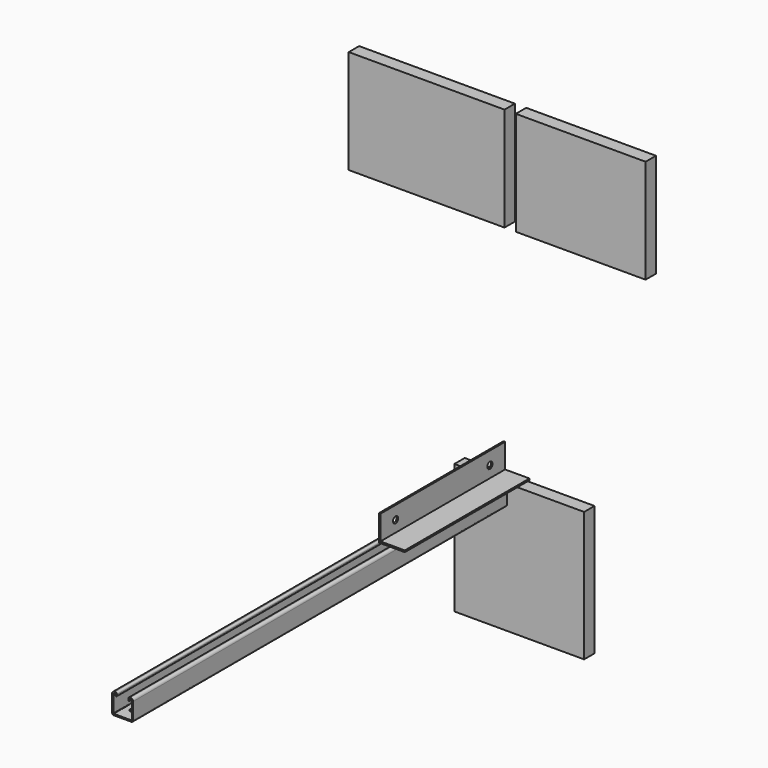
from build123d import *

# Parameters (mm, degrees)
F1_DEPTH  = 914.4
F3_D      = 14.3002
F4_W      = 254
F4_H      = 254
F5_DEPTH  = 25.4
F6_W      = 304.8
F6_H      = 203.2
F7_DEPTH  = 25.4
F6_W_2    = 254
F9_DEPTH  = 304.8
F10_R     = 6.35
F11_DEPTH = 298.3799499484


with BuildPart() as f1:
    # F0 (on Front) → F1 (new body)
    with BuildSketch(Plane.XZ):
        with BuildLine():
            add(Edge.make_bspline(
                [(-43.5507717685, 38.2530050192), (-45.4621217685, 38.2530050192), (-47.0117334351, 36.7035697414), (-47.0117334351, 34.7922197414)],
                knots=[0, 0, 0, 0, 1, 1, 1, 1], degree=3))
            Line((-47.0117334351, 34.7922197414), (-47.0117334351, 32.4490344637))
            add(Edge.make_bspline(
                [(-47.0117334351, 32.4490344639), (-47.0117334351, 31.7126461306), (-46.4143395462, 31.1156402972), (-45.677774824, 31.1156402972)],
                knots=[0, 0, 0, 0, 1, 1, 1, 1], degree=3))
            add(Edge.make_bspline(
                [(-45.677774824, 31.1156402972), (-44.9419156573, 31.1156402972), (-44.3445217684, 31.7126461306), (-44.3445217684, 32.4490344639)],
                knots=[0, 0, 0, 0, 1, 1, 1, 1], degree=3))
            Line((-44.3445217684, 32.4490344639), (-44.3445217684, 34.7922197414))
            add(Edge.make_bspline(
                [(-44.3445217684, 34.7922197414), (-44.3445217684, 35.2306166859), (-43.988992324, 35.5859697414), (-43.5507717684, 35.5859697414)],
                knots=[0, 0, 0, 0, 1, 1, 1, 1], degree=3))
            Line((-43.5507717687, 35.5859697414), (-42.5344895465, 35.5859697414))
            add(Edge.make_bspline(
                [(-42.5344895465, 35.5859697414), (-41.2198278798, 35.5859697414), (-40.1532395465, 34.5199105748), (-40.1532395465, 33.2047197414)],
                knots=[0, 0, 0, 0, 1, 1, 1, 1], degree=3))
            Line((-40.1532395465, 33.2047197414), (-40.1532395462, 0.438437519))
            add(Edge.make_bspline(
                [(-40.1532395462, 0.4384375192), (-40.1532395462, 0.0002169637), (-40.5087689907, -0.3553124808), (-40.9469895462, -0.3553124808)],
                knots=[0, 0, 0, 0, 1, 1, 1, 1], degree=3))
            Line((-40.9469895462, -0.3553124808), (-75.3007717687, -0.3553124808))
            add(Edge.make_bspline(
                [(-75.3007717687, -0.3553124808), (-75.7391687134, -0.3553124808), (-76.094521769, 0.0002169637), (-76.094521769, 0.4384375192)],
                knots=[0, 0, 0, 0, 1, 1, 1, 1], degree=3))
            Line((-76.094521769, 0.4384375192), (-76.094521769, 33.2047197412))
            add(Edge.make_bspline(
                [(-76.094521769, 33.2047197412), (-76.094521769, 34.5199105745), (-75.0284626018, 35.5859697412), (-73.7132717685, 35.5859697412)],
                knots=[0, 0, 0, 0, 1, 1, 1, 1], degree=3))
            Line((-73.7132717685, 35.5859697412), (-72.6973070465, 35.5859697412))
            add(Edge.make_bspline(
                [(-72.6973070465, 35.5859697412), (-72.2589453798, 35.5859697412), (-71.9035570465, 35.2306166856), (-71.9035570465, 34.7922197412)],
                knots=[0, 0, 0, 0, 1, 1, 1, 1], degree=3))
            Line((-71.9035570465, 34.7922197412), (-71.9035570465, 32.4490344637))
            add(Edge.make_bspline(
                [(-71.9035570465, 32.4490344637), (-71.9035570465, 31.7126461303), (-71.3065512132, 31.115640297), (-70.5699864909, 31.115640297)],
                knots=[0, 0, 0, 0, 1, 1, 1, 1], degree=3))
            add(Edge.make_bspline(
                [(-70.5699864909, 31.115640297), (-69.8335981576, 31.115640297), (-69.2365570465, 31.7126461303), (-69.2365570465, 32.4490344637)],
                knots=[0, 0, 0, 0, 1, 1, 1, 1], degree=3))
            Line((-69.2365570465, 32.4490344634), (-69.2365570465, 34.7922197414))
            add(Edge.make_bspline(
                [(-69.2365570465, 34.7922197414), (-69.2365570465, 36.7035697414), (-70.7859923243, 38.2530050192), (-72.6973070465, 38.2530050192)],
                knots=[0, 0, 0, 0, 1, 1, 1, 1], degree=3))
            Line((-72.6973070465, 38.2530050192), (-73.7132717685, 38.2530050192))
            add(Edge.make_bspline(
                [(-73.7132717685, 38.2530050192), (-76.5013803801, 38.2530050192), (-78.7615570467, 35.9928636303), (-78.7615570467, 33.2047197414)],
                knots=[0, 0, 0, 0, 1, 1, 1, 1], degree=3))
            Line((-78.7615570467, 33.2047197414), (-78.7615570467, 0.4384375195))
            add(Edge.make_bspline(
                [(-78.7615570467, 0.4384375195), (-78.7615570467, -1.472206925), (-77.212121769, -3.0218185919), (-75.3007717687, -3.0218185919)],
                knots=[0, 0, 0, 0, 1, 1, 1, 1], degree=3))
            Line((-75.300771769, -3.0218185922), (-40.9469895467, -3.0218185922))
            add(Edge.make_bspline(
                [(-40.9469895465, -3.0218185922), (-39.036345102, -3.0218185922), (-37.4867334354, -1.4722069252), (-37.4867334354, 0.4384375192)],
                knots=[0, 0, 0, 0, 1, 1, 1, 1], degree=3))
            Line((-37.4867334354, 0.4384375192), (-37.4867334354, 33.2047197414))
            add(Edge.make_bspline(
                [(-37.4867334354, 33.2047197414), (-37.4867334354, 35.9928636303), (-39.7466984354, 38.2530050192), (-42.5344895465, 38.2530050192)],
                knots=[0, 0, 0, 0, 1, 1, 1, 1], degree=3))
            Line((-42.5344895465, 38.2530050192), (-43.5507717685, 38.2530050192))
        make_face()
    extrude(amount=F1_DEPTH)

    # F3 (through all)
    with Locations(Plane(origin=(0, 0, -3.0218185922), x_dir=(1, 0, 0), z_dir=(0, 0, -1))):
        with Locations((-58.1238806577, 885.825), (-58.1238806577, 838.2), (-58.1238806577, 790.575), (-58.1238806577, 742.95), (-58.1238806577, 695.325), (-58.1238806577, 647.7), (-58.1238806577, 600.075), (-58.1238806577, 552.45), (-58.1238806577, 504.825), (-58.1238806577, 457.2), (-58.1238806577, 409.575), (-58.1238806577, 361.95), (-58.1238806577, 314.325), (-58.1238806577, 266.7), (-58.1238806577, 219.075), (-58.1238806577, 171.45), (-58.1238806577, 123.825), (-58.1238806577, 76.2), (-58.1238806577, 28.575)):
            Hole(F3_D / 2)


with BuildPart() as f5:
    # F4 (on Front) → F5 (new body)
    with BuildSketch(Plane.XZ):
        with Locations((-13.5827994868, -90.0102279425)):
            Rectangle(F4_W, F4_H)
    extrude(amount=-F5_DEPTH)


with BuildPart() as f7:
    # F6 (on Front) → F7 (new body)
    with BuildSketch(Plane.XZ):
        with Locations((-174.4194579414, 594.6261911135)):
            Rectangle(F6_W, F6_H)
    extrude(amount=F7_DEPTH)


with BuildPart() as f7b:
    # F6 (on Front) → F7, piece 2 (new body)
    with BuildSketch(Plane.XZ):
        with Locations((127, 594.6261911135)):
            Rectangle(F6_W_2, F6_H)
    extrude(amount=F7_DEPTH)


with BuildPart() as f9:
    # F8 (on Front) → F9 (new body)
    with BuildSketch(Plane.XZ):
        Polygon((-44.3789499484, 56.6901619234), (6.4210500516, 56.6901619234), (6.4210500516, 59.8651619234), (-41.2039499484, 59.8651619234), (-41.2039499484, 107.4901619234), (-44.3789499484, 107.4901619234), align=None)
    extrude(amount=F9_DEPTH)

    # F10 (on face) → F11 (cut, through all)
    with BuildSketch(Plane(origin=(-44.3789499484, 0, 0), x_dir=(0, -1, 0), z_dir=(-1, 0, 0))):
        with Locations((37.0337226301, 82.0901619234)):
            Circle(F10_R)
        with Locations((267.7662773699, 82.0901619234)):
            Circle(F10_R)
    extrude(amount=-F11_DEPTH, mode=Mode.SUBTRACT)


solid = Compound([f1.part, f5.part, f7.part, f7b.part, f9.part])
